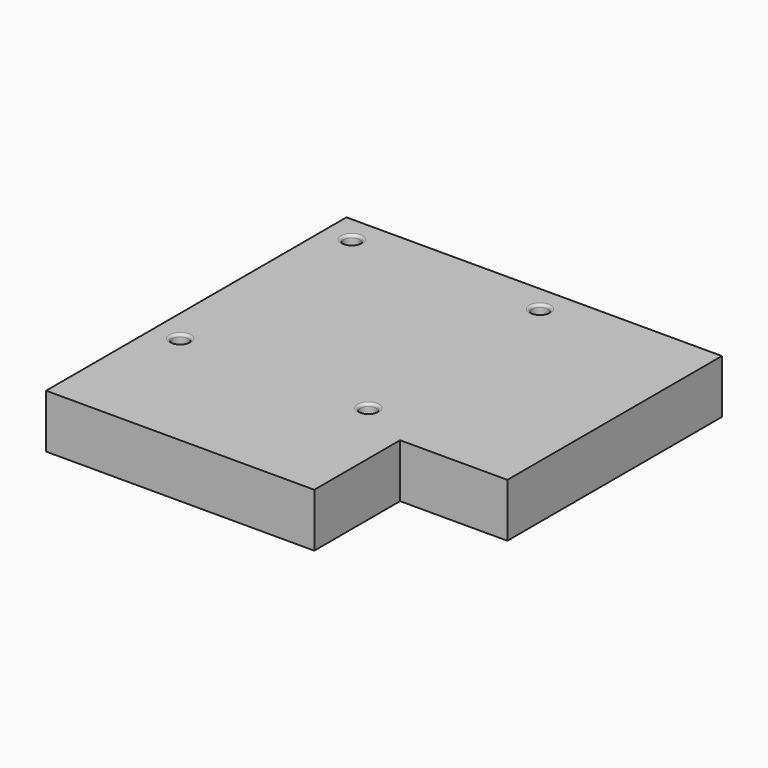
from build123d import *

# Parameters (mm, degrees)
F1_DEPTH = 10
F2_R     = 1.5
F3_DEPTH = 10.001
F4_R     = 0.5


with BuildPart() as f1:
    # F0 (on Top) → F1 (new body)
    with BuildSketch(Plane.XY):
        Polygon((41.192254, 61.494219), (-28.807746, 61.494219), (-28.807746, -8.505781), (21.192254, -8.505781), (21.192254, 11.494219), (41.192254, 11.494219), align=None)
    extrude(amount=F1_DEPTH)

    # F2 (on Top) → F3 (cut, through all)
    with BuildSketch(Plane.XY):
        with Locations((-23.807746, 56.494219)):
            Circle(F2_R)
        with Locations((11.277618, 56.494219)):
            Circle(F2_R)
        with Locations((11.277618, 16.494219)):
            Circle(F2_R)
        with Locations((-23.807746, 16.494219)):
            Circle(F2_R)
    extrude(amount=F3_DEPTH, mode=Mode.SUBTRACT)

    # F4
    f4_edges = [f1.edges().sort_by_distance(p)[0] for p in [
        (-25.307746, 16.494219, 10),
        (-25.307746, 56.494219, 10),
        (9.777618, 56.494219, 10),
        (9.777618, 16.494219, 10),
    ]]
    fillet(f4_edges, radius=F4_R)


solid = f1.part
